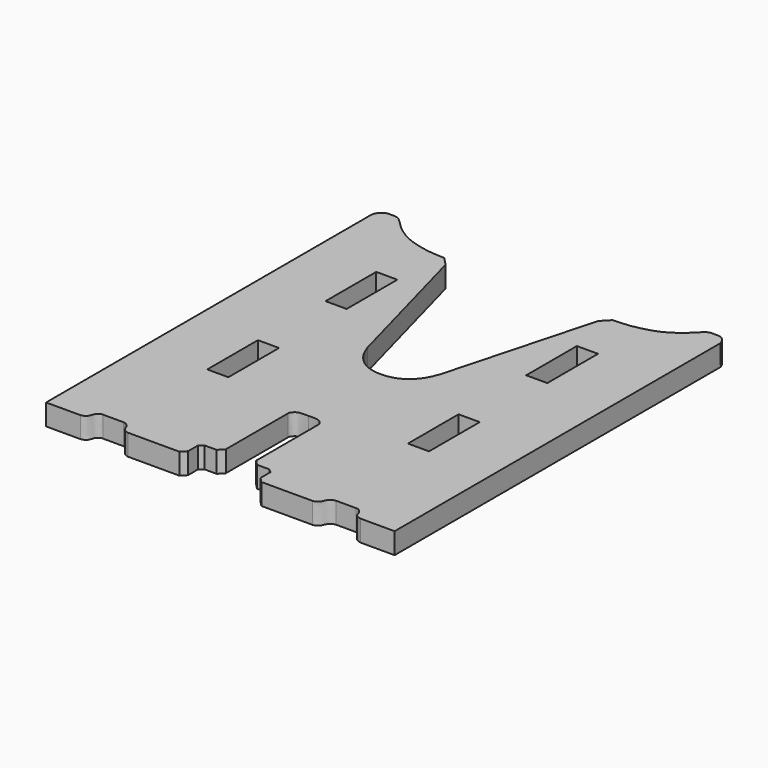
from build123d import *

# Parameters (mm, degrees)
F0_W     = 25.4
F0_H     = 76.2
F1_DEPTH = 25.4


with BuildPart() as f1:
    # F0 (on Top) → F1 (new body)
    with BuildSketch(Plane.XY):
        with BuildLine():
            Line((30.9262787184, 498.3229439005), (30.9262787184, 8.456480433))
            Line((30.9262787184, 8.456480433), (72.217412293, 8.456480433))
            add(Edge.make_bspline(
                [(72.217412293, 8.456480433), (73.4852665028, 8.7640434819), (75.8718361425, 9.3429906739), (78.3316272813, 11.1017833794), (79.9532326715, 13.9228117219), (80.4640832014, 16.785820321), (82.01193683, 19.3684086545), (84.0107794765, 21.2518918863), (86.2908170535, 22.5906793688), (87.6761521556, 22.5351813792), (88.3244052529, 22.5092116743)],
                knots=[0, 0, 0, 0, 0.1436293041, 0.2703633698, 0.4014913452, 0.5278343271, 0.6546424922, 0.7780471952, 0.8961395023, 1, 1, 1, 1], degree=3))
            Line((88.3244052529, 22.5092116743), (112.9345819354, 22.5092116743))
            add(Edge.make_bspline(
                [(112.9345819354, 22.5092116743), (113.851131377, 22.3480925968), (115.6727567197, 22.027871361), (117.9517558244, 20.4688298476), (119.7978413404, 18.4949734034), (121.2270398065, 15.9649157252), (121.964377889, 13.3315753939), (123.9322978467, 10.7114673584), (126.8270087303, 8.8540221315), (128.7575486175, 8.5851424278), (129.6813338995, 8.456480433)],
                knots=[0, 0, 0, 0, 0.1221478091, 0.2427665486, 0.3636927244, 0.4879995502, 0.6092361004, 0.7411096874, 0.8761180424, 1, 1, 1, 1], degree=3))
            Line((129.6813338995, 8.456480433), (191.1404877901, 8.456480433))
            Line((191.1404877901, 8.456480433), (196.9410777092, 14.3275056034))
            Line((196.9410777092, 14.3275056034), (196.9410777092, 29.5809209347))
            Line((196.9410777092, 29.5809209347), (201.4526426792, 33.2331471145))
            Line((201.4526426792, 33.2331471145), (216.2763923407, 33.2331471145))
            Line((216.2763923407, 33.2331471145), (222.1844047308, 39.4634157419))
            Line((222.1844047308, 39.4634157419), (222.1844047308, 133.1428903466))
            add(Edge.make_bspline(
                [(222.1844047308, 133.1428903466), (222.1844047308, 133.917721602), (222.7889561103, 135.7917858002), (224.5542041207, 137.9380244961), (226.8313464383, 139.8580278247), (230.5840922784, 141.2265412177), (236.7059416254, 141.1206859667), (240.4762787184, 141.0770565328)],
                knots=[0, 0, 0, 0, 0.1602260225, 0.3263351359, 0.4928279093, 0.6846095993, 1, 1, 1, 1], degree=3))
            add(Edge.make_bspline(
                [(258.7681527059, 133.1428903466), (258.7681527059, 133.917721602), (258.1636013264, 135.7917858002), (256.3983533161, 137.9380244961), (254.1212109984, 139.8580278247), (250.3684651583, 141.2265412177), (244.2466158113, 141.1206859667), (240.4762787184, 141.0770565328)],
                knots=[0, 0, 0, 0, 0.1602260225, 0.3263351359, 0.4928279093, 0.6846095993, 1, 1, 1, 1], degree=3))
            Line((258.7681527059, 133.1428903466), (258.7681527059, 39.4634157419))
            Line((258.7681527059, 39.4634157419), (264.6761650961, 33.2331471145))
            Line((264.6761650961, 33.2331471145), (279.4999147575, 33.2331471145))
            Line((279.4999147575, 33.2331471145), (284.0114797275, 29.5809209347))
            Line((284.0114797275, 29.5809209347), (284.0114797275, 14.3275056034))
            Line((284.0114797275, 14.3275056034), (289.8120696466, 8.456480433))
            Line((289.8120696466, 8.456480433), (351.2712235372, 8.456480433))
            add(Edge.make_bspline(
                [(368.0179755013, 22.5092116743), (367.1014260597, 22.3480925968), (365.279800717, 22.027871361), (363.0008016123, 20.4688298476), (361.1547160963, 18.4949734034), (359.7255176302, 15.9649157252), (358.9881795477, 13.3315753939), (357.02025959, 10.7114673584), (354.1255487064, 8.8540221315), (352.1950088192, 8.5851424278), (351.2712235372, 8.456480433)],
                knots=[0, 0, 0, 0, 0.1221478091, 0.2427665486, 0.3636927244, 0.4879995502, 0.6092361004, 0.7411096874, 0.8761180424, 1, 1, 1, 1], degree=3))
            Line((368.0179755013, 22.5092116743), (392.6281521838, 22.5092116743))
            add(Edge.make_bspline(
                [(408.7351451438, 8.456480433), (407.4672909339, 8.7640434819), (405.0807212943, 9.3429906739), (402.6209301554, 11.1017833794), (400.9993247652, 13.9228117219), (400.4884742353, 16.785820321), (398.9406206067, 19.3684086545), (396.9417779602, 21.2518918863), (394.6617403832, 22.5906793688), (393.2764052811, 22.5351813792), (392.6281521838, 22.5092116743)],
                knots=[0, 0, 0, 0, 0.1436293041, 0.2703633698, 0.4014913452, 0.5278343271, 0.6546424922, 0.7780471952, 0.8961395023, 1, 1, 1, 1], degree=3))
            Line((408.7351451438, 8.456480433), (450.0262787184, 8.456480433))
            Line((450.0262787184, 8.456480433), (450.0262787184, 498.3229439005))
            add(Edge.make_bspline(
                [(450.0262787184, 498.3229439005), (449.7829850555, 499.3165610744), (449.1938815183, 501.1323831233), (447.0992675249, 504.2075151676), (444.9202583684, 506.6189963609), (441.2786130548, 508.9606932529), (435.358588646, 508.9872032227), (429.1913815619, 509.0395894009), (424.868955416, 507.2944637448), (417.9594650405, 500.3110453826), (409.7722905448, 491.8691640983), (395.4181520753, 482.4752786022), (383.1912839921, 477.5553814908), (366.2273491553, 473.2054893474), (354.4147543645, 471.9952327705), (346.0731351848, 471.7297269486), (341.8586964529, 471.5955853462)],
                knots=[0, 0, 0, 0, 0.0429300681, 0.0905584934, 0.1357841716, 0.1862979961, 0.247389759, 0.3090643341, 0.3617620414, 0.4382226544, 0.5260544206, 0.6284948022, 0.7211860438, 0.8248180391, 0.9118377504, 1, 1, 1, 1], degree=3))
            Line((341.8586964529, 471.5955853462), (332.2182561081, 461.727887392))
            Line((332.2182561081, 461.727887392), (284.0941364687, 283.982783556))
            add(Edge.make_bspline(
                [(284.0941364687, 283.982783556), (280.5210466306, 274.1951644421), (271.0321016609, 249.6468871832), (240.4762787184, 249.6468871832)],
                knots=[0, 0, 0, 0, 55.5110015623, 55.5110015623, 55.5110015623, 55.5110015623], degree=3))
            add(Edge.make_bspline(
                [(196.8584209681, 283.982783556), (200.4315108061, 274.1951644421), (209.9204557758, 249.6468871832), (240.4762787184, 249.6468871832)],
                knots=[0, 0, 0, 0, 55.5110015623, 55.5110015623, 55.5110015623, 55.5110015623], degree=3))
            Line((196.8584209681, 283.982783556), (148.7343013287, 461.727887392))
            Line((148.7343013287, 461.727887392), (139.0938609838, 471.5955853462))
            add(Edge.make_bspline(
                [(30.9262787184, 498.3229439005), (31.1695723812, 499.3165610744), (31.7586759185, 501.1323831233), (33.8532899119, 504.2075151676), (36.0322990684, 506.6189963609), (39.6739443819, 508.9606932529), (45.5939687907, 508.9872032227), (51.7611758749, 509.0395894009), (56.0836020207, 507.2944637448), (62.9930923962, 500.3110453826), (71.1802668919, 491.8691640983), (85.5344053615, 482.4752786022), (97.7612734446, 477.5553814908), (114.7252082814, 473.2054893474), (126.5378030722, 471.9952327705), (134.8794222519, 471.7297269486), (139.0938609838, 471.5955853462)],
                knots=[0, 0, 0, 0, 0.0429300681, 0.0905584934, 0.1357841716, 0.1862979961, 0.247389759, 0.3090643341, 0.3617620414, 0.4382226544, 0.5260544206, 0.6284948022, 0.7211860438, 0.8248180391, 0.9118377504, 1, 1, 1, 1], degree=3))
        make_face()
        with Locations((119.8262787184, 193.5229439005)):
            Rectangle(F0_W, F0_H, mode=Mode.SUBTRACT)
        with Locations((361.1262787184, 193.5229439005)):
            Rectangle(F0_W, F0_H, mode=Mode.SUBTRACT)
        with Locations((119.8262787184, 371.3229439005)):
            Rectangle(F0_W, F0_H, mode=Mode.SUBTRACT)
        with Locations((361.1262787184, 371.3229439005)):
            Rectangle(F0_W, F0_H, mode=Mode.SUBTRACT)
    extrude(amount=F1_DEPTH)


solid = f1.part
